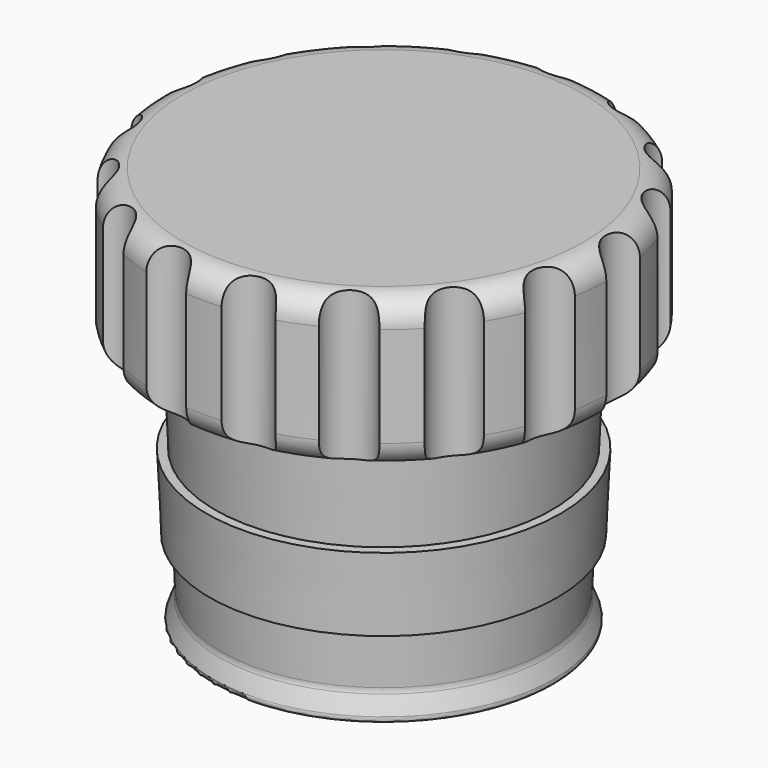
from build123d import *

# Parameters (mm, degrees)
F2_R          = 2
F3_DEPTH      = 2
F3_DEPTH_BACK = 20


with BuildPart() as f1:
    # F0 (on Front) → F1 (revolve)
    with BuildSketch(Plane.XZ):
        with BuildLine():
            Line((-13.757529, 0.50234), (-13.009578, -16.326557))
            ThreePointArc((-13.009578, -16.326557), (-13.022678, -16.538213), (-13.080115, -16.742348))
            Line((-13.080115, -16.742348), (-13.608005, -18.062074))
            ThreePointArc((-13.608005, -18.062074), (-13.572862, -18.38828), (-13.283038, -18.54206))
            Line((-13.283038, -18.54206), (0, -18.54206))
            Line((0, -18.54206), (0, 13.45794))
            Line((0, 13.45794), (-16, 13.45794))
            ThreePointArc((-16, 13.45794), (-17.414214, 12.872153), (-18, 11.45794))
            Line((-18, 11.45794), (-18, 3.45794))
            ThreePointArc((-18, 3.45794), (-17.414214, 2.043726), (-16, 1.45794))
            Line((-16, 1.45794), (-14.756543, 1.45794))
            ThreePointArc((-14.756543, 1.45794), (-14.065312, 1.180574), (-13.757529, 0.50234))
        make_face()
    revolve(axis=Axis((0, 0, -2.54206), (0, 0, -1)))

    # F2 (on face) → F3 (cut, two sides)
    with BuildSketch(Plane.XY.offset(13.45794)) as f3_sk:
        with Locations((0, 18.5)):
            Circle(F2_R)
        with Locations((-6.682971, 17.250736)):
            Circle(F2_R)
        with Locations((-12.463369, 13.671665)):
            Circle(F2_R)
        with Locations((-16.560521, 8.24616)):
            Circle(F2_R)
        with Locations((-18.421082, 1.706965)):
            Circle(F2_R)
        with Locations((-17.793774, -5.062765)):
            Circle(F2_R)
        with Locations((-14.763319, -11.148741)):
            Circle(F2_R)
        with Locations((-9.738995, -15.729017)):
            Circle(F2_R)
        with Locations((-3.399366, -18.185002)):
            Circle(F2_R)
        with Locations((3.399366, -18.185002)):
            Circle(F2_R)
        with Locations((9.738995, -15.729017)):
            Circle(F2_R)
        with Locations((14.763319, -11.148741)):
            Circle(F2_R)
        with Locations((17.793774, -5.062765)):
            Circle(F2_R)
        with Locations((18.421082, 1.706965)):
            Circle(F2_R)
        with Locations((16.560521, 8.24616)):
            Circle(F2_R)
        with Locations((12.463369, 13.671665)):
            Circle(F2_R)
        with Locations((6.682971, 17.250736)):
            Circle(F2_R)
    extrude(amount=F3_DEPTH, mode=Mode.SUBTRACT)
    extrude(f3_sk.sketch, amount=-F3_DEPTH_BACK, mode=Mode.SUBTRACT)


with BuildPart() as f5:
    # F4 (on Front) → F5 (revolve)
    with BuildSketch(Plane.XZ):
        Polygon((-13.459168, -6.210784), (-14.158478, -6.241864), (-13.892074, -12.235947), (-13.192764, -12.204867), align=None)
    revolve(axis=Axis((0, 0, -2.54206), (0, 0, -1)))


solid = Compound([f1.part, f5.part])
